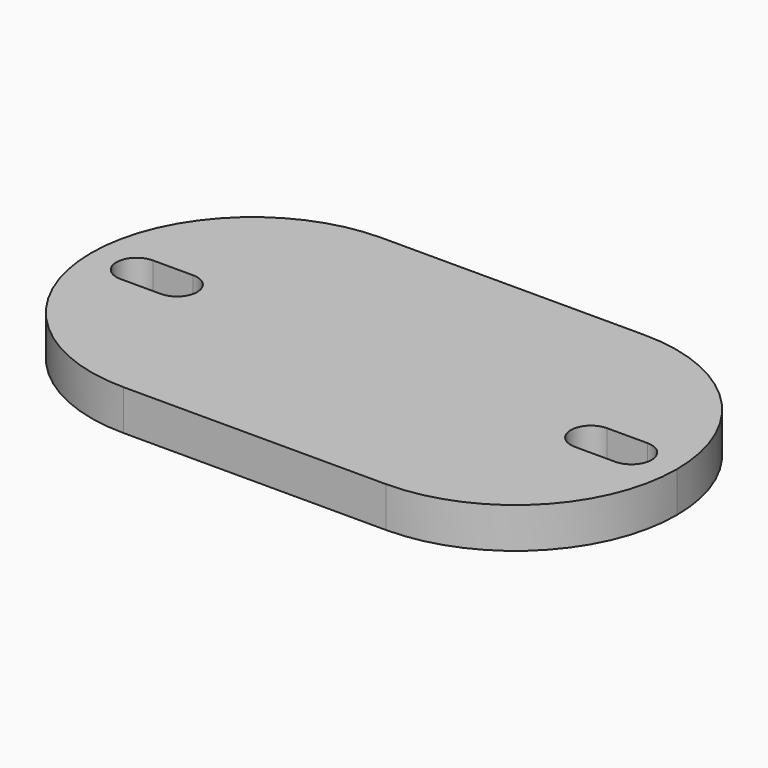
from build123d import *

# Parameters (mm, degrees)
F1_DEPTH = 8


with BuildPart() as f1:
    # F0 (on Top) → F1 (new body)
    with BuildSketch(Plane.XY):
        with BuildLine():
            Line((26, 32), (-26, 32))
            ThreePointArc((-26, 32), (-48.627417, 22.627417), (-58, 0))
            ThreePointArc((-58, 0), (-48.627417, -22.627417), (-26, -32))
            Line((-26, -32), (26, -32))
            ThreePointArc((26, -32), (48.627417, -22.627417), (58, 0))
            ThreePointArc((58, 0), (48.627417, 22.627417), (26, 32))
        make_face()
        with BuildLine():
            ThreePointArc((-49, -4), (-53, 0), (-49, 4))
            Line((-49, 4), (-41, 4))
            ThreePointArc((-41, 4), (-37, 0), (-41, -4))
            Line((-41, -4), (-49, -4))
        make_face(mode=Mode.SUBTRACT)
        with BuildLine():
            Line((49, -4), (41, -4))
            ThreePointArc((41, -4), (37, 0), (41, 4))
            Line((41, 4), (49, 4))
            ThreePointArc((49, 4), (53, 0), (49, -4))
        make_face(mode=Mode.SUBTRACT)
    extrude(amount=F1_DEPTH)


solid = f1.part
